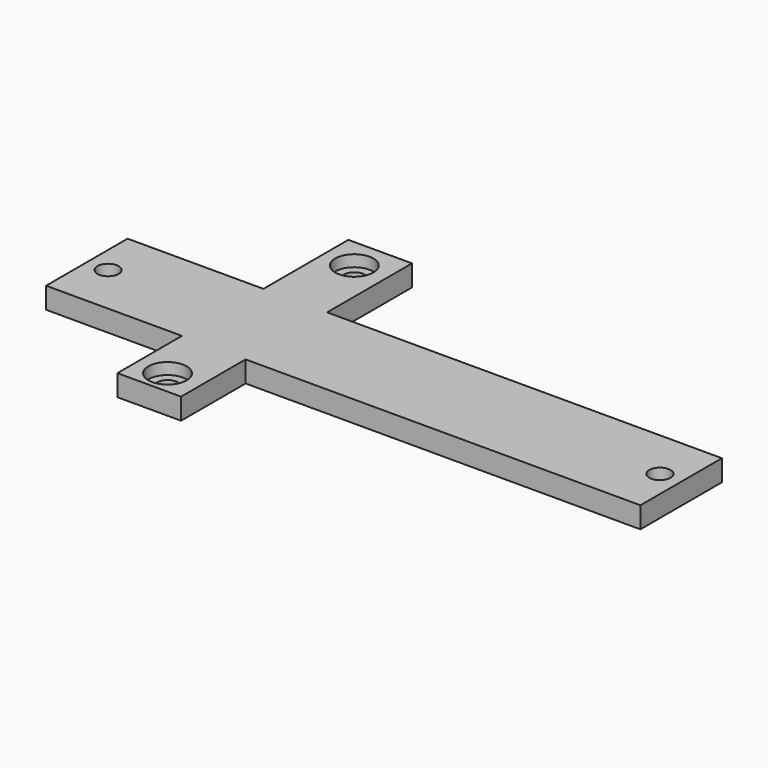
from build123d import *

# Parameters (mm, degrees)
CYLINDER063_R          = 4.5
CYLINDER063_DEPTH      = 10
CYLINDER064_R          = 4.5
CYLINDER064_DEPTH      = 10
CYLINDER058_R          = 2.5
CYLINDER058_DEPTH      = 10
CYLINDER059_R          = 2.5
CYLINDER059_DEPTH      = 10
CYLINDER060_R          = 2.5
CYLINDER060_DEPTH      = 10
CYLINDER061_R          = 2.5
CYLINDER061_DEPTH      = 10
CYLINDER057_R          = 2.5
CYLINDER057_DEPTH      = 10
CYLINDER062_R          = 2.5
CYLINDER062_DEPTH      = 10
BOX013_W               = 15
BOX013_H               = 5
BOX013_DEPTH           = 68
BOX012_W               = 140
BOX012_H               = 5
BOX012_DEPTH           = 24
CUT006_PLACEMENT_ANGLE = 90


with BuildPart() as cylinder063:
    # Cylinder063 → Cylinder063 (new body)
    with BuildSketch(Plane(origin=(-45.75, 0, -56.3), x_dir=(1, 0, 0), z_dir=(0, -1, 0))):
        Circle(CYLINDER063_R)
    extrude(amount=CYLINDER063_DEPTH)


with BuildPart() as obj1:
    # Cylinder064 → Cylinder064 (new body)
    with BuildSketch(Plane(origin=(-45.75, 0, -1.3), x_dir=(1, 0, 0), z_dir=(0, -1, 0))):
        Circle(CYLINDER064_R)
    extrude(amount=CYLINDER064_DEPTH)

    # Fusion023: union Cylinder063
    add(cylinder063.part)


with BuildPart() as obj1_1:
    # Fusion023 placement: moved
    add(obj1.part.moved(Location((0, 2.7, 0))))


with BuildPart() as cylinder058:
    # Cylinder058 → Cylinder058 (new body)
    with BuildSketch(Plane(origin=(115, 0, -31), x_dir=(1, 0, 0), z_dir=(0, -1, 0))):
        Circle(CYLINDER058_R)
    extrude(amount=CYLINDER058_DEPTH)


with BuildPart() as cylinder059:
    # Cylinder059 → Cylinder059 (new body)
    with BuildSketch(Plane(origin=(-80, 0, -31), x_dir=(1, 0, 0), z_dir=(0, -1, 0))):
        Circle(CYLINDER059_R)
    extrude(amount=CYLINDER059_DEPTH)


with BuildPart() as cylinder060:
    # Cylinder060 → Cylinder060 (new body)
    with BuildSketch(Plane(origin=(50, 0, -31), x_dir=(1, 0, 0), z_dir=(0, -1, 0))):
        Circle(CYLINDER060_R)
    extrude(amount=CYLINDER060_DEPTH)


with BuildPart() as cylinder061:
    # Cylinder061 → Cylinder061 (new body)
    with BuildSketch(Plane(origin=(-45.75, 0, -56.3), x_dir=(1, 0, 0), z_dir=(0, -1, 0))):
        Circle(CYLINDER061_R)
    extrude(amount=CYLINDER061_DEPTH)


with BuildPart() as cylinder057:
    # Cylinder057 → Cylinder057 (new body)
    with BuildSketch(Plane(origin=(-115, 0, -31), x_dir=(1, 0, 0), z_dir=(0, -1, 0))):
        Circle(CYLINDER057_R)
    extrude(amount=CYLINDER057_DEPTH)


with BuildPart() as fusion026:
    # Cylinder062 → Cylinder062 (new body)
    with BuildSketch(Plane(origin=(-45.75, 0, -1.3), x_dir=(1, 0, 0), z_dir=(0, -1, 0))):
        Circle(CYLINDER062_R)
    extrude(amount=CYLINDER062_DEPTH)

    # Fusion022: union Cylinder058, Cylinder059, Cylinder060, Cylinder061, Cylinder057
    add(cylinder058.part)
    add(cylinder059.part)
    add(cylinder060.part)
    add(cylinder061.part)
    add(cylinder057.part)


with BuildPart() as fusion026_1:
    # Fusion022 placement: moved
    add(fusion026.part.moved(Location((0, 5.1, 0))))

    # Fusion026: union obj1
    add(obj1_1.part)


with BuildPart() as cube011:
    # Box013 → Box013 (new body)
    with BuildSketch(Plane(origin=(-53, 0, -62), x_dir=(1, 0, 0), z_dir=(0, 0, 1))):
        with Locations((7.5, 2.5)):
            Rectangle(BOX013_W, BOX013_H)
    extrude(amount=BOX013_DEPTH)


with BuildPart() as powerbase001:
    # Box012 → Box012 (new body)
    with BuildSketch(Plane(origin=(-85, 0, -43), x_dir=(1, 0, 0), z_dir=(0, 0, 1))):
        with Locations((70, 2.5)):
            Rectangle(BOX012_W, BOX012_H)
    extrude(amount=BOX012_DEPTH)

    # Fusion021: union Cube011
    add(cube011.part)

    # Cut006: cut Fusion026
    add(fusion026_1.part, mode=Mode.SUBTRACT)


with BuildPart() as powerbase001_1:
    # Cut006 placement: moved
    add(powerbase001.part.rotate(Axis((0, 0, 0), (-1, 0, 0)), CUT006_PLACEMENT_ANGLE))


solid = powerbase001_1.part
